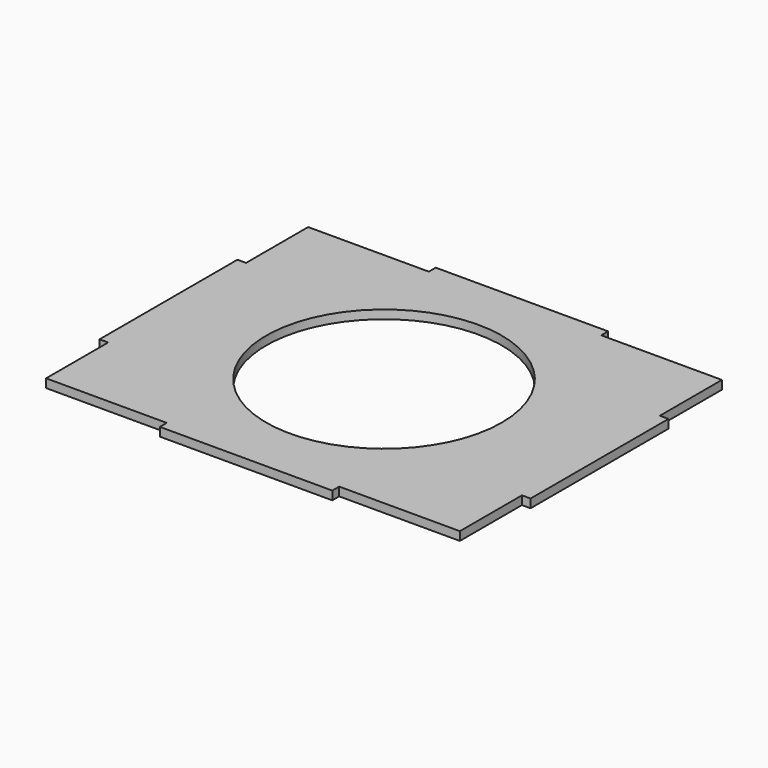
from build123d import *

# Parameters (mm, degrees)
F0_R     = 41
F0_W     = 60
F0_H     = 3
F0_W_2   = 3
F0_H_2   = 60
F1_DEPTH = 3


with BuildPart() as f1:
    # F0 (on Top) → F1 (new body)
    with BuildSketch(Plane.XY):
        Polygon((72, 30), (72, 57), (30, 57), (-30, 57), (-72, 57), (-72, 30), (-72, -30), (-72, -57), (-30, -57), (30, -57), (72, -57), (72, -30), align=None)
        Circle(F0_R, mode=Mode.SUBTRACT)
        with Locations((0, 58.5)):
            Rectangle(F0_W, F0_H)
        with Locations((73.5, 0)):
            Rectangle(F0_W_2, F0_H_2)
        with Locations((-73.5, 0)):
            Rectangle(F0_W_2, F0_H_2)
        with Locations((0, -58.5)):
            Rectangle(F0_W, F0_H)
    extrude(amount=F1_DEPTH)


solid = f1.part
